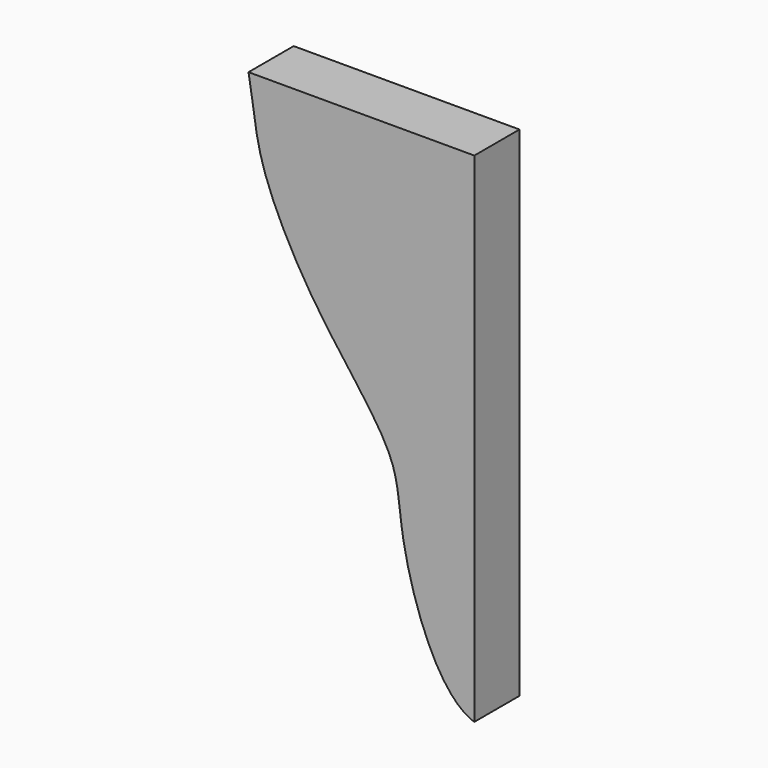
from build123d import *

# Parameters (mm, degrees)
F1_DEPTH = 19.05


with BuildPart() as f1:
    # F0 (on Front) → F1 (new body)
    with BuildSketch(Plane.XZ):
        with BuildLine():
            Line((20.7386398176, 152.4), (-55.4613601824, 152.4))
            add(Edge.make_bspline(
                [(-55.4613601824, 152.4), (-53.6399899349, 142.5602545948), (-53.0992138831, 126.7675019953), (-32.8324370321, 87.2864357905), (-3.6130066078, 54.258089518), (-5.8210793709, 30.4747692471), (8.5508944352, -11.8944785826), (20.7386398176, -15.875)],
                knots=[0, 0, 0, 0, 0.1677310299, 0.3857035879, 0.5985539841, 0.7663896012, 1, 1, 1, 1], degree=3))
            Line((20.7386398176, -15.875), (20.7386398176, 152.4))
        make_face()
    extrude(amount=F1_DEPTH)


solid = f1.part
